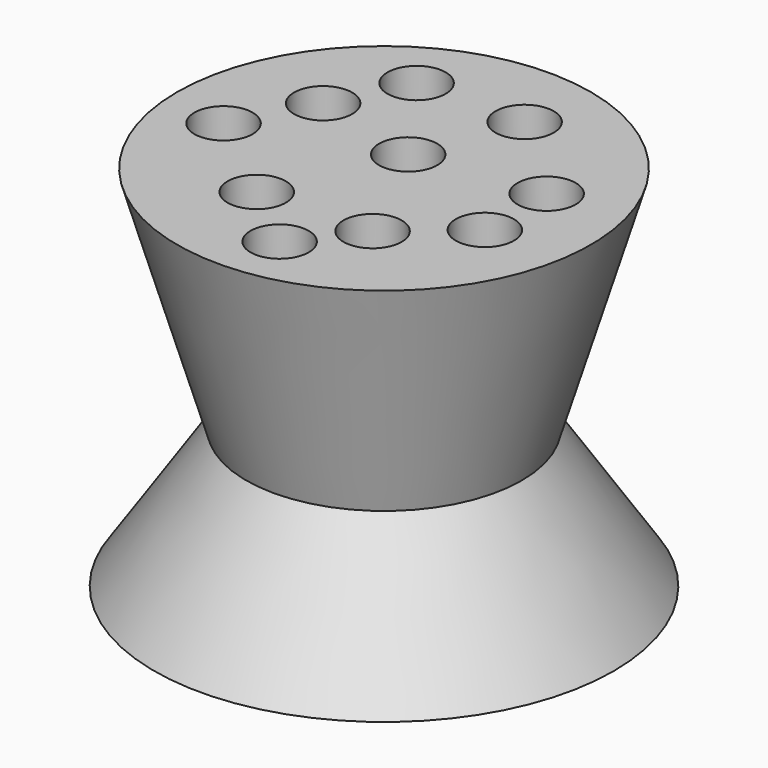
from build123d import *

# Parameters (mm, degrees)
F3_D     = 7.6
F3_DEPTH = 12
F3_TIP   = 2.2832703523
F5_D     = 7.6
F5_DEPTH = 12
F5_TIP   = 2.2832703523


with BuildPart() as f1:
    # F0 (on Front) → F1 (revolve)
    with BuildSketch(Plane.XZ):
        Polygon((-18, -30.0000015049), (-30, -48.0000015049), (0, -48.0000015049), (0, 0), (-27, 0), align=None)
    revolve(axis=Axis((0, 0, -24.0000007525), (0, 0, -1)))

    # F3
    with Locations(Plane.XY):
        with Locations((4.7843093053, 16.9646441936), (0, 3.9457264356), (16.4348743856, 5.9969499707), (-9.1730067506, 16.7864412069), (7.7405036427, -11.5405060351), (-6.8799313158, -12.1632143855), (-18.984535709, -2.4492875673)):
            Hole(F3_D / 2, depth=F3_DEPTH)
            with Locations((0, 0, -(F3_DEPTH + F3_TIP / 2))):  # 118° drill point
                Cone(0, F3_D / 2, F3_TIP, mode=Mode.SUBTRACT)

    # F5
    with Locations(Plane.XY):
        with Locations((-13.827174902, 7.3514520191), (1.784414053, -19.2592125386), (16.5089797229, -4.1798353195)):
            Hole(F5_D / 2, depth=F5_DEPTH)
            with Locations((0, 0, -(F5_DEPTH + F5_TIP / 2))):  # 118° drill point
                Cone(0, F5_D / 2, F5_TIP, mode=Mode.SUBTRACT)


solid = f1.part
